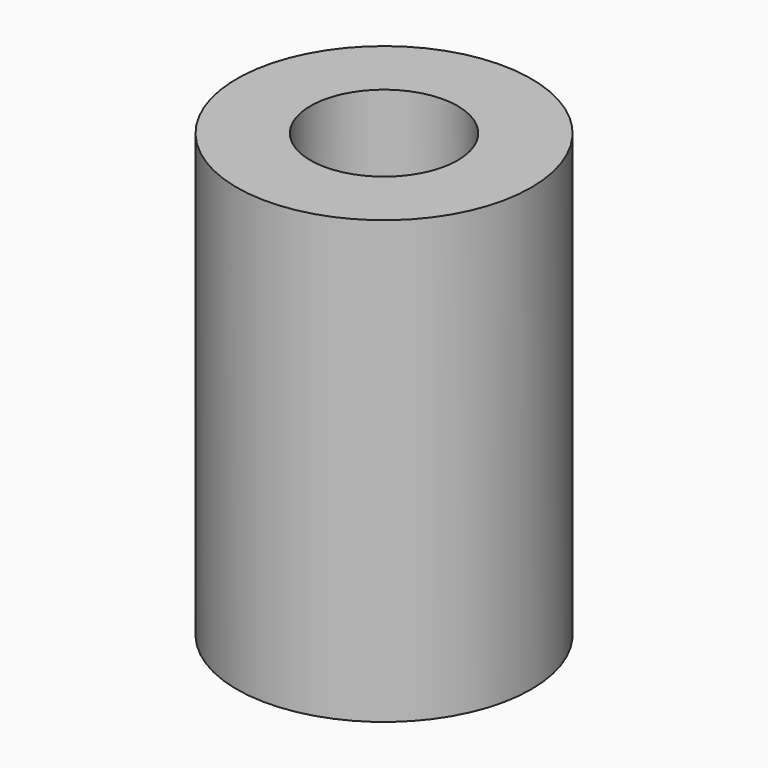
from build123d import *

# Parameters (mm, degrees)
SKETCH_R        = 10
PAD_DEPTH       = 30
SKETCH001_R     = 2.75
POCKET_DEPTH    = 30.001
SKETCH002_R     = 5
POCKET001_DEPTH = 10


with BuildPart() as part:
    # Sketch → Pad (new body)
    with BuildSketch(Plane.XY):
        Circle(SKETCH_R)
    extrude(amount=PAD_DEPTH)

    # Sketch001 (on Face3 of Pad) → Pocket (cut, through all)
    with BuildSketch(Plane.XY.offset(30)):
        Circle(SKETCH001_R)
    extrude(amount=-POCKET_DEPTH, mode=Mode.SUBTRACT)

    # Sketch002 (on Face3 of Pocket) → Pocket001 (cut)
    with BuildSketch(Plane.XY.offset(30)):
        Circle(SKETCH002_R)
    extrude(amount=-POCKET001_DEPTH, mode=Mode.SUBTRACT)


solid = part.part
